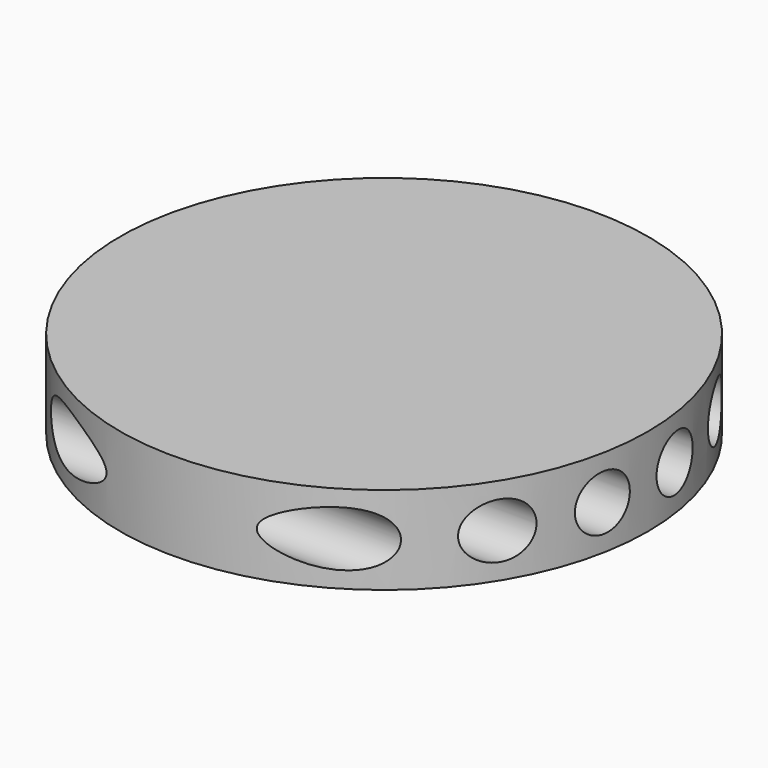
from build123d import *

# Parameters (mm, degrees)
F0_R     = 38.1
F1_DEPTH = 12.7
F2_R     = 4
F3_DEPTH = 50


with BuildPart() as f1:
    # F0 (on Top) → F1 (new body)
    with BuildSketch(Plane.XY):
        Circle(F0_R)
    extrude(amount=F1_DEPTH)

    # F2 (on Right) → F3 (cut, symmetric)
    with BuildSketch(Plane.YZ):
        with Locations((-32.5239, 6.35)):
            Circle(F2_R)
        with Locations((-19.8239, 6.35)):
            Circle(F2_R)
        with Locations((-7.1239, 6.35)):
            Circle(F2_R)
        with Locations((5.5761, 6.35)):
            Circle(F2_R)
        with Locations((18.2761, 6.35)):
            Circle(F2_R)
        with Locations((30.9761, 6.35)):
            Circle(F2_R)
    extrude(amount=F3_DEPTH, both=True, mode=Mode.SUBTRACT)


solid = f1.part
